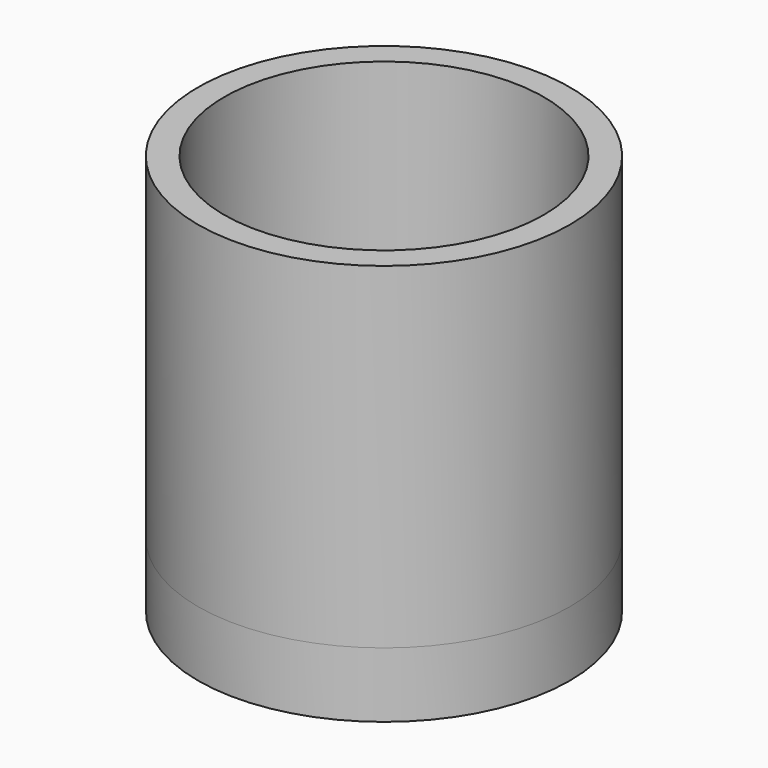
from build123d import *

# Parameters (mm, degrees)
F0_R     = 88.5
F0_R_2   = 76
F1_DEPTH = 160
F2_R     = 88.458341
F3_DEPTH = 31
F4_R     = 12.7
F5_DEPTH = 31


with BuildPart() as f1:
    # F0 (on Top) → F1 (new body)
    with BuildSketch(Plane.XY):
        Circle(F0_R)
        Circle(F0_R_2, mode=Mode.SUBTRACT)
    extrude(amount=F1_DEPTH)

    # F2 (on face) → F3 (join)
    with BuildSketch(Plane(origin=(0, 0, 0), x_dir=(1, 0, 0), z_dir=(0, 0, -1))):
        Circle(F2_R)
    extrude(amount=F3_DEPTH)

    # F4 (on face) → F5 (cut, through all)
    with BuildSketch(Plane(origin=(0, 0, -31), x_dir=(1, 0, 0), z_dir=(0, 0, -1))):
        Circle(F4_R)
    extrude(amount=-F5_DEPTH, mode=Mode.SUBTRACT)


solid = f1.part
